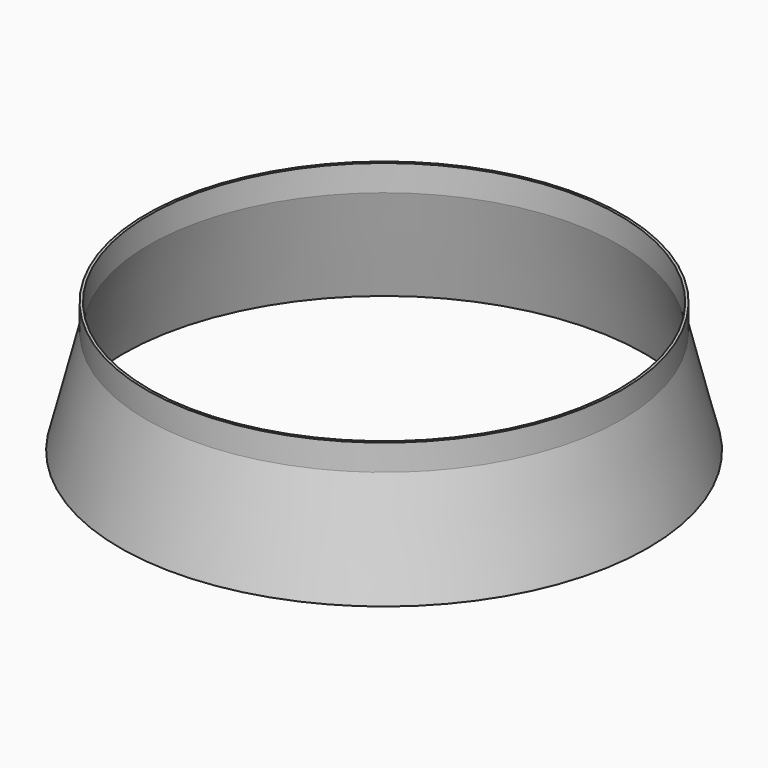
from build123d import *

# Parameters (mm, degrees)
F0_W = 0.127
F0_H = 1.27


with BuildPart() as f1:
    # F0 (on Front) → F1 (revolve)
    with BuildSketch(Plane.XZ):
        Polygon((-10.526586, 28.955677), (-10.653586, 28.955677), (-9.383586, 23.875677), (-9.256586, 23.875677), align=None)
        with Locations((-10.590086, 29.590677)):
            Rectangle(F0_W, F0_H)
    revolve(axis=Axis((-22.083586, 0, 29.590677), (0, 0, -1)))


solid = f1.part
